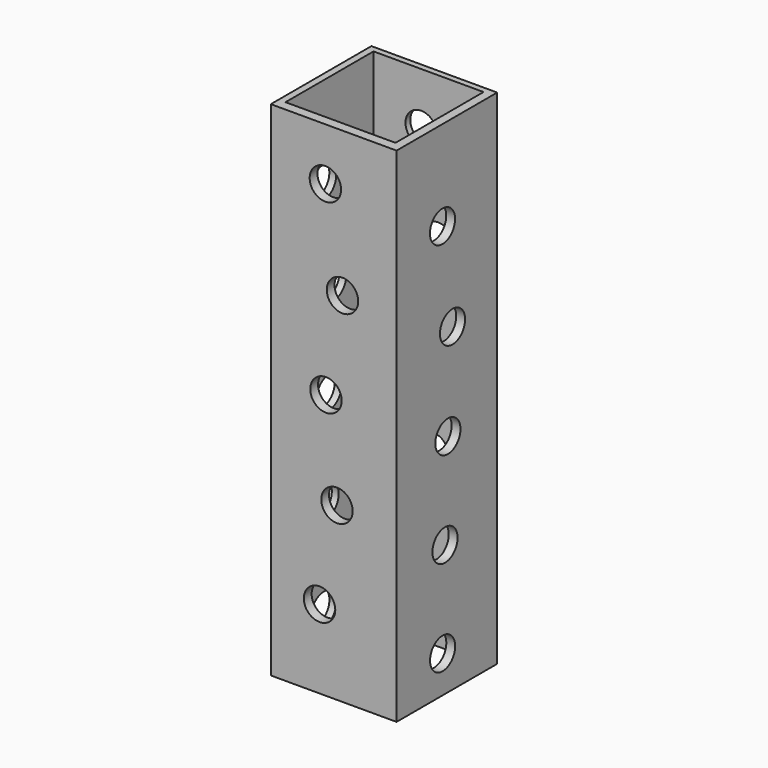
from build123d import *

# Parameters (mm, degrees)
F0_W      = 25.4
F0_H      = 25.4
F1_DEPTH  = 101.6
F2_W      = 22.225
F2_H      = 22.225
F3_DEPTH  = 101.6
F4_R      = 3.174802
F5_DEPTH  = 25.4
F6_R      = 3.175
F7_DEPTH  = 25.4
F8_R      = 3.175
F9_DEPTH  = 25.4
F10_R     = 3.175
F11_DEPTH = 25.4
F12_R     = 3.175
F13_DEPTH = 25.4
F14_R     = 3.175
F15_DEPTH = 25.4
F16_R     = 3.175
F17_DEPTH = 25.4
F18_R     = 3.175
F19_DEPTH = 25.4
F20_R     = 3.175
F21_DEPTH = 25.4
F22_R     = 3.175
F23_DEPTH = 25.4


with BuildPart() as f1:
    # F0 (on Top) → F1 (new body)
    with BuildSketch(Plane.XY):
        with Locations((-12.7, -12.7)):
            Rectangle(F0_W, F0_H)
    extrude(amount=F1_DEPTH)

    # F2 (on face) → F3 (cut)
    with BuildSketch(Plane.XY.offset(101.6)):
        with Locations((-12.899866, -12.319956)):
            Rectangle(F2_W, F2_H)
    extrude(amount=-F3_DEPTH, mode=Mode.SUBTRACT)

    # F4 (on face) → F5 (cut)
    with BuildSketch(Plane(origin=(-25.4, 0, 0), x_dir=(0, -1, 0), z_dir=(-1, 0, 0))):
        with Locations((13.779499, 7.461248)):
            Circle(F4_R)
    extrude(amount=-F5_DEPTH, mode=Mode.SUBTRACT)

    # F6 (on face) → F7 (cut)
    with BuildSketch(Plane(origin=(-25.4, 0, 0), x_dir=(0, -1, 0), z_dir=(-1, 0, 0))):
        with Locations((13.171837, 26.501355)):
            Circle(F6_R)
    extrude(amount=-F7_DEPTH, mode=Mode.SUBTRACT)

    # F8 (on face) → F9 (cut)
    with BuildSketch(Plane(origin=(-25.4, 0, 0), x_dir=(0, -1, 0), z_dir=(-1, 0, 0))):
        with Locations((12.4406, 45.537316)):
            Circle(F8_R)
    extrude(amount=-F9_DEPTH, mode=Mode.SUBTRACT)

    # F10 (on face) → F11 (cut)
    with BuildSketch(Plane(origin=(-25.4, 0, 0), x_dir=(0, -1, 0), z_dir=(-1, 0, 0))):
        with Locations((11.275698, 64.551666)):
            Circle(F10_R)
    extrude(amount=-F11_DEPTH, mode=Mode.SUBTRACT)

    # F12 (on face) → F13 (cut)
    with BuildSketch(Plane(origin=(-25.4, 0, 0), x_dir=(0, -1, 0), z_dir=(-1, 0, 0))):
        with Locations((13.80254, 83.433339)):
            Circle(F12_R)
    extrude(amount=-F13_DEPTH, mode=Mode.SUBTRACT)

    # F14 (on face) → F15 (cut)
    with BuildSketch(Plane.XZ.offset(25.4)):
        with Locations((-15.557501, 15.875)):
            Circle(F14_R)
    extrude(amount=-F15_DEPTH, mode=Mode.SUBTRACT)

    # F16 (on face) → F17 (cut)
    with BuildSketch(Plane.XZ.offset(25.4)):
        with Locations((-12.04097, 34.59762)):
            Circle(F16_R)
    extrude(amount=-F17_DEPTH, mode=Mode.SUBTRACT)

    # F18 (on face) → F19 (cut)
    with BuildSketch(Plane.XZ.offset(25.4)):
        with Locations((-14.264603, 53.517397)):
            Circle(F18_R)
    extrude(amount=-F19_DEPTH, mode=Mode.SUBTRACT)

    # F20 (on face) → F21 (cut)
    with BuildSketch(Plane.XZ.offset(25.4)):
        with Locations((-10.92981, 72.27324)):
            Circle(F20_R)
    extrude(amount=-F21_DEPTH, mode=Mode.SUBTRACT)

    # F22 (on face) → F23 (cut)
    with BuildSketch(Plane.XZ.offset(25.4)):
        with Locations((-14.380366, 91.008132)):
            Circle(F22_R)
    extrude(amount=-F23_DEPTH, mode=Mode.SUBTRACT)


solid = f1.part
